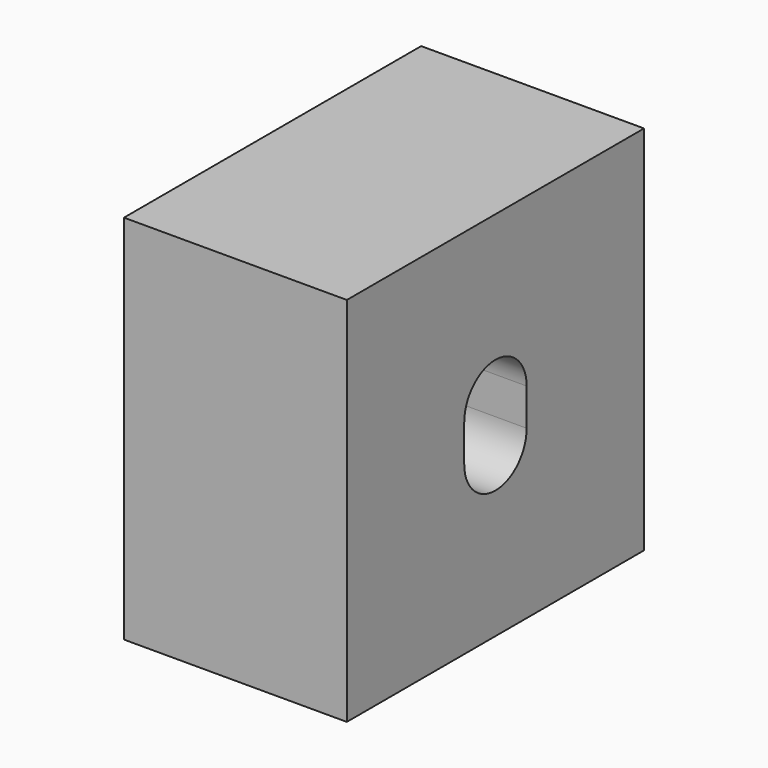
from build123d import *

# Parameters (mm, degrees)
F0_W     = 50
F0_H     = 50
F1_DEPTH = 15


with BuildPart() as f1:
    # F0 (on Right) → F1 (new body, symmetric)
    with BuildSketch(Plane.YZ):
        Rectangle(F0_W, F0_H)
        with BuildLine():
            Line((-5.25, -2.5), (-5.25, 2.5))
            ThreePointArc((-5.25, 2.5), (0, 7.75), (5.25, 2.5))
            Line((5.25, 2.5), (5.25, -2.5))
            ThreePointArc((5.25, -2.5), (0, -7.75), (-5.25, -2.5))
        make_face(mode=Mode.SUBTRACT)
    extrude(amount=F1_DEPTH, both=True)


solid = f1.part
